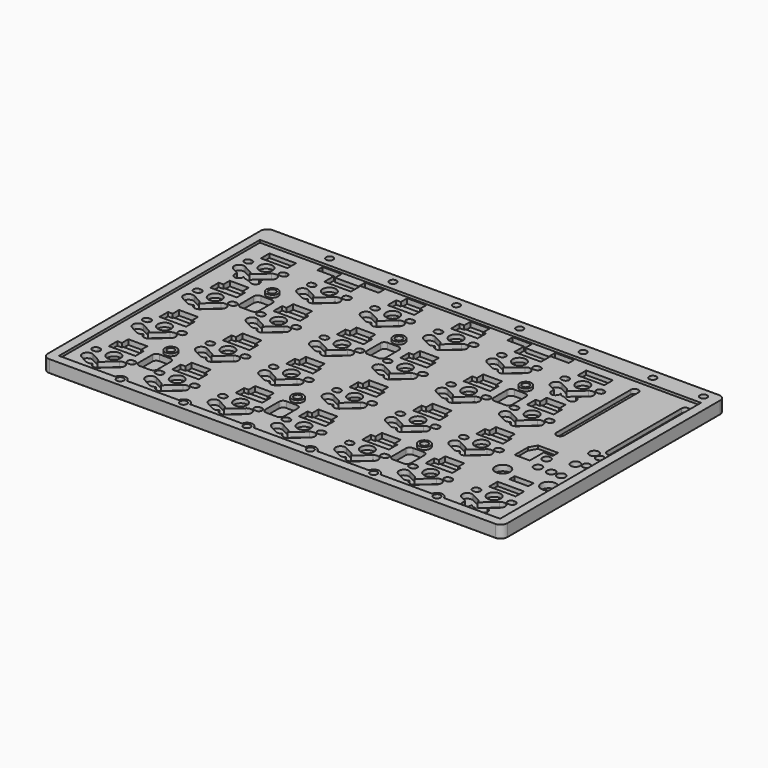
from build123d import *

# Parameters (mm, degrees)
PAD010_DEPTH    = 3
FILLET004_R     = 0.1
SKETCH018_R     = 2
POCKET004_DEPTH = 1.2
POCKET007_DEPTH = 1.5
POCKET016_DEPTH = 1.5
SKETCH022_W     = 8
SKETCH022_H     = 3.2
POCKET010_DEPTH = 1.2
POCKET011_DEPTH = 1.8
SKETCH029_W     = 5.7
SKETCH029_H     = 2
POCKET014_DEPTH = 1.5
SKETCH101_W     = 5.7
SKETCH101_H     = 0.4
SKETCH101_W_2   = 0.225
SKETCH101_W_3   = 0.725
POCKET067_DEPTH = 1.2
POCKET022_DEPTH = 0.9
POCKET020_DEPTH = 1.3
SKETCH033_R     = 2.25
SKETCH033_R_2   = 1.15
SKETCH033_R_3   = 1.4
SKETCH033_R_4   = 1.25
POCKET018_DEPTH = 1.7
PAD026_DEPTH    = 0.75
SKETCH070_W     = 132.6
SKETCH070_H     = 75.5
POCKET051_DEPTH = 0.75
SKETCH072_R     = 1.75
PAD024_DEPTH    = 0.75
SKETCH043_R     = 1.075
POCKET024_DEPTH = 4.501


with BuildPart() as part:
    # Sketch017 → Pad010 (new body)
    with BuildSketch(Plane.XY):
        with BuildLine():
            Line((-145.25, 89.1), (-145.25, 9.15))
            ThreePointArc((-145.25, 9.15), (-144.664214, 7.735786), (-143.25, 7.15))
            Line((-9.15, 7.15), (-143.25, 7.15))
            ThreePointArc((-9.15, 7.15), (-7.735786, 7.735786), (-7.15, 9.15))
            Line((-7.15, 89.1), (-7.15, 9.15))
            ThreePointArc((-7.15, 89.1), (-7.735786, 90.514214), (-9.15, 91.1))
            Line((-143.25, 91.1), (-9.15, 91.1))
            ThreePointArc((-143.25, 91.1), (-144.664214, 90.514214), (-145.25, 89.1))
        make_face()
    extrude(amount=-PAD010_DEPTH)

    # Fillet004
    fillet004_edges = [part.edges().sort_by_distance(p)[0] for p in [
        (-76.2, 7.15, -3),
        (-7.735786, 7.735786, -3),
        (-7.15, 49.125, -3),
        (-7.735786, 90.514214, -3),
        (-76.2, 91.1, -3),
        (-144.664214, 90.514214, -3),
        (-145.25, 49.125, -3),
    ]]
    fillet(fillet004_edges, radius=FILLET004_R)

    # Sketch018 → Pocket004 (cut)
    with BuildSketch(Plane.XY):
        with Locations((-133.35, 76.2)):
            Circle(SKETCH018_R)
        with Locations((-114.3, 76.2)):
            Circle(SKETCH018_R)
        with Locations((-95.25, 76.2)):
            Circle(SKETCH018_R)
        with Locations((-76.2, 76.2)):
            Circle(SKETCH018_R)
        with Locations((-57.15, 76.2)):
            Circle(SKETCH018_R)
        with Locations((-38.1, 76.2)):
            Circle(SKETCH018_R)
        with Locations((-133.35, 57.15)):
            Circle(SKETCH018_R)
        with Locations((-114.3, 57.15)):
            Circle(SKETCH018_R)
        with Locations((-95.25, 57.15)):
            Circle(SKETCH018_R)
        with Locations((-76.2, 57.15)):
            Circle(SKETCH018_R)
        with Locations((-57.15, 57.15)):
            Circle(SKETCH018_R)
        with Locations((-38.1, 57.15)):
            Circle(SKETCH018_R)
        with Locations((-133.35, 38.1)):
            Circle(SKETCH018_R)
        with Locations((-114.3, 38.1)):
            Circle(SKETCH018_R)
        with Locations((-95.25, 38.1)):
            Circle(SKETCH018_R)
        with Locations((-76.2, 38.1)):
            Circle(SKETCH018_R)
        with Locations((-57.15, 38.1)):
            Circle(SKETCH018_R)
        with Locations((-38.1, 38.1)):
            Circle(SKETCH018_R)
        with Locations((-133.35, 19.05)):
            Circle(SKETCH018_R)
        with Locations((-114.3, 19.05)):
            Circle(SKETCH018_R)
        with Locations((-95.25, 19.05)):
            Circle(SKETCH018_R)
        with Locations((-76.2, 19.05)):
            Circle(SKETCH018_R)
        with Locations((-57.15, 19.05)):
            Circle(SKETCH018_R)
        with Locations((-38.1, 19.05)):
            Circle(SKETCH018_R)
        with Locations((-19.05, 19.05)):
            Circle(SKETCH018_R)
        with BuildLine():
            ThreePointArc((-138.85, 77.2), (-139.85, 76.2), (-138.85, 75.2))
            Line((-138.85, 75.2), (-138.43, 75.2))
            ThreePointArc((-138.43, 75.2), (-137.43, 76.2), (-138.43, 77.2))
            Line((-138.85, 77.2), (-138.43, 77.2))
        make_face()
        with BuildLine():
            ThreePointArc((-128.27, 77.2), (-129.27, 76.2), (-128.27, 75.2))
            Line((-128.27, 75.2), (-127.85, 75.2))
            ThreePointArc((-127.85, 75.2), (-126.85, 76.2), (-127.85, 77.2))
            Line((-128.27, 77.2), (-127.85, 77.2))
        make_face()
        with BuildLine():
            ThreePointArc((-119.8, 77.2), (-120.8, 76.2), (-119.8, 75.2))
            Line((-119.8, 75.2), (-119.38, 75.2))
            ThreePointArc((-119.38, 75.2), (-118.38, 76.2), (-119.38, 77.2))
            Line((-119.8, 77.2), (-119.38, 77.2))
        make_face()
        with BuildLine():
            ThreePointArc((-109.22, 77.2), (-110.22, 76.2), (-109.22, 75.2))
            Line((-109.22, 75.2), (-108.8, 75.2))
            ThreePointArc((-108.8, 75.2), (-107.8, 76.2), (-108.8, 77.2))
            Line((-109.22, 77.2), (-108.8, 77.2))
        make_face()
        with BuildLine():
            ThreePointArc((-100.75, 77.2), (-101.75, 76.2), (-100.75, 75.2))
            Line((-100.75, 75.2), (-100.33, 75.2))
            ThreePointArc((-100.33, 75.2), (-99.33, 76.2), (-100.33, 77.2))
            Line((-100.75, 77.2), (-100.33, 77.2))
        make_face()
        with BuildLine():
            ThreePointArc((-90.17, 77.2), (-91.17, 76.2), (-90.17, 75.2))
            Line((-90.17, 75.2), (-89.75, 75.2))
            ThreePointArc((-89.75, 75.2), (-88.75, 76.2), (-89.75, 77.2))
            Line((-90.17, 77.2), (-89.75, 77.2))
        make_face()
        with BuildLine():
            ThreePointArc((-81.7, 77.2), (-82.7, 76.2), (-81.7, 75.2))
            Line((-81.7, 75.2), (-81.28, 75.2))
            ThreePointArc((-81.28, 75.2), (-80.28, 76.2), (-81.28, 77.2))
            Line((-81.7, 77.2), (-81.28, 77.2))
        make_face()
        with BuildLine():
            ThreePointArc((-71.12, 77.2), (-72.12, 76.2), (-71.12, 75.2))
            Line((-71.12, 75.2), (-70.7, 75.2))
            ThreePointArc((-70.7, 75.2), (-69.7, 76.2), (-70.7, 77.2))
            Line((-71.12, 77.2), (-70.7, 77.2))
        make_face()
        with BuildLine():
            ThreePointArc((-62.65, 77.2), (-63.65, 76.2), (-62.65, 75.2))
            Line((-62.65, 75.2), (-62.23, 75.2))
            ThreePointArc((-62.23, 75.2), (-61.23, 76.2), (-62.23, 77.2))
            Line((-62.65, 77.2), (-62.23, 77.2))
        make_face()
        with BuildLine():
            ThreePointArc((-52.07, 77.2), (-53.07, 76.2), (-52.07, 75.2))
            Line((-52.07, 75.2), (-51.65, 75.2))
            ThreePointArc((-51.65, 75.2), (-50.65, 76.2), (-51.65, 77.2))
            Line((-52.07, 77.2), (-51.65, 77.2))
        make_face()
        with BuildLine():
            ThreePointArc((-43.6, 77.2), (-44.6, 76.2), (-43.6, 75.2))
            Line((-43.6, 75.2), (-43.18, 75.2))
            ThreePointArc((-43.18, 75.2), (-42.18, 76.2), (-43.18, 77.2))
            Line((-43.6, 77.2), (-43.18, 77.2))
        make_face()
        with BuildLine():
            ThreePointArc((-33.02, 77.2), (-34.02, 76.2), (-33.02, 75.2))
            Line((-33.02, 75.2), (-32.6, 75.2))
            ThreePointArc((-32.6, 75.2), (-31.6, 76.2), (-32.6, 77.2))
            Line((-33.02, 77.2), (-32.6, 77.2))
        make_face()
        with BuildLine():
            ThreePointArc((-138.85, 58.15), (-139.85, 57.15), (-138.85, 56.15))
            Line((-138.85, 56.15), (-138.43, 56.15))
            ThreePointArc((-138.43, 56.15), (-137.43, 57.15), (-138.43, 58.15))
            Line((-138.85, 58.15), (-138.43, 58.15))
        make_face()
        with BuildLine():
            ThreePointArc((-128.27, 58.15), (-129.27, 57.15), (-128.27, 56.15))
            Line((-128.27, 56.15), (-127.85, 56.15))
            ThreePointArc((-127.85, 56.15), (-126.85, 57.15), (-127.85, 58.15))
            Line((-128.27, 58.15), (-127.85, 58.15))
        make_face()
        with BuildLine():
            ThreePointArc((-119.8, 58.15), (-120.8, 57.15), (-119.8, 56.15))
            Line((-119.8, 56.15), (-119.38, 56.15))
            ThreePointArc((-119.38, 56.15), (-118.38, 57.15), (-119.38, 58.15))
            Line((-119.8, 58.15), (-119.38, 58.15))
        make_face()
        with BuildLine():
            ThreePointArc((-109.22, 58.15), (-110.22, 57.15), (-109.22, 56.15))
            Line((-109.22, 56.15), (-108.8, 56.15))
            ThreePointArc((-108.8, 56.15), (-107.8, 57.15), (-108.8, 58.15))
            Line((-109.22, 58.15), (-108.8, 58.15))
        make_face()
        with BuildLine():
            ThreePointArc((-100.75, 58.15), (-101.75, 57.15), (-100.75, 56.15))
            Line((-100.75, 56.15), (-100.33, 56.15))
            ThreePointArc((-100.33, 56.15), (-99.33, 57.15), (-100.33, 58.15))
            Line((-100.75, 58.15), (-100.33, 58.15))
        make_face()
        with BuildLine():
            ThreePointArc((-90.17, 58.15), (-91.17, 57.15), (-90.17, 56.15))
            Line((-90.17, 56.15), (-89.75, 56.15))
            ThreePointArc((-89.75, 56.15), (-88.75, 57.15), (-89.75, 58.15))
            Line((-90.17, 58.15), (-89.75, 58.15))
        make_face()
        with BuildLine():
            ThreePointArc((-81.7, 58.15), (-82.7, 57.15), (-81.7, 56.15))
            Line((-81.7, 56.15), (-81.28, 56.15))
            ThreePointArc((-81.28, 56.15), (-80.28, 57.15), (-81.28, 58.15))
            Line((-81.7, 58.15), (-81.28, 58.15))
        make_face()
        with BuildLine():
            ThreePointArc((-71.12, 58.15), (-72.12, 57.15), (-71.12, 56.15))
            Line((-71.12, 56.15), (-70.7, 56.15))
            ThreePointArc((-70.7, 56.15), (-69.7, 57.15), (-70.7, 58.15))
            Line((-71.12, 58.15), (-70.7, 58.15))
        make_face()
        with BuildLine():
            ThreePointArc((-62.65, 58.15), (-63.65, 57.15), (-62.65, 56.15))
            Line((-62.65, 56.15), (-62.23, 56.15))
            ThreePointArc((-62.23, 56.15), (-61.23, 57.15), (-62.23, 58.15))
            Line((-62.65, 58.15), (-62.23, 58.15))
        make_face()
        with BuildLine():
            ThreePointArc((-52.07, 58.15), (-53.07, 57.15), (-52.07, 56.15))
            Line((-52.07, 56.15), (-51.65, 56.15))
            ThreePointArc((-51.65, 56.15), (-50.65, 57.15), (-51.65, 58.15))
            Line((-52.07, 58.15), (-51.65, 58.15))
        make_face()
        with BuildLine():
            ThreePointArc((-43.6, 58.15), (-44.6, 57.15), (-43.6, 56.15))
            Line((-43.6, 56.15), (-43.18, 56.15))
            ThreePointArc((-43.18, 56.15), (-42.18, 57.15), (-43.18, 58.15))
            Line((-43.6, 58.15), (-43.18, 58.15))
        make_face()
        with BuildLine():
            ThreePointArc((-33.02, 58.15), (-34.02, 57.15), (-33.02, 56.15))
            Line((-33.02, 56.15), (-32.6, 56.15))
            ThreePointArc((-32.6, 56.15), (-31.6, 57.15), (-32.6, 58.15))
            Line((-33.02, 58.15), (-32.6, 58.15))
        make_face()
        with BuildLine():
            ThreePointArc((-138.85, 39.1), (-139.85, 38.1), (-138.85, 37.1))
            Line((-138.85, 37.1), (-138.43, 37.1))
            ThreePointArc((-138.43, 37.1), (-137.43, 38.1), (-138.43, 39.1))
            Line((-138.85, 39.1), (-138.43, 39.1))
        make_face()
        with BuildLine():
            ThreePointArc((-128.27, 39.1), (-129.27, 38.1), (-128.27, 37.1))
            Line((-128.27, 37.1), (-127.85, 37.1))
            ThreePointArc((-127.85, 37.1), (-126.85, 38.1), (-127.85, 39.1))
            Line((-128.27, 39.1), (-127.85, 39.1))
        make_face()
        with BuildLine():
            ThreePointArc((-119.8, 39.1), (-120.8, 38.1), (-119.8, 37.1))
            Line((-119.8, 37.1), (-119.38, 37.1))
            ThreePointArc((-119.38, 37.1), (-118.38, 38.1), (-119.38, 39.1))
            Line((-119.8, 39.1), (-119.38, 39.1))
        make_face()
        with BuildLine():
            ThreePointArc((-109.22, 39.1), (-110.22, 38.1), (-109.22, 37.1))
            Line((-109.22, 37.1), (-108.8, 37.1))
            ThreePointArc((-108.8, 37.1), (-107.8, 38.1), (-108.8, 39.1))
            Line((-109.22, 39.1), (-108.8, 39.1))
        make_face()
        with BuildLine():
            ThreePointArc((-100.75, 39.1), (-101.75, 38.1), (-100.75, 37.1))
            Line((-100.75, 37.1), (-100.33, 37.1))
            ThreePointArc((-100.33, 37.1), (-99.33, 38.1), (-100.33, 39.1))
            Line((-100.75, 39.1), (-100.33, 39.1))
        make_face()
        with BuildLine():
            ThreePointArc((-90.17, 39.1), (-91.17, 38.1), (-90.17, 37.1))
            Line((-90.17, 37.1), (-89.75, 37.1))
            ThreePointArc((-89.75, 37.1), (-88.75, 38.1), (-89.75, 39.1))
            Line((-90.17, 39.1), (-89.75, 39.1))
        make_face()
        with BuildLine():
            ThreePointArc((-81.7, 39.1), (-82.7, 38.1), (-81.7, 37.1))
            Line((-81.7, 37.1), (-81.28, 37.1))
            ThreePointArc((-81.28, 37.1), (-80.28, 38.1), (-81.28, 39.1))
            Line((-81.7, 39.1), (-81.28, 39.1))
        make_face()
        with BuildLine():
            ThreePointArc((-71.12, 39.1), (-72.12, 38.1), (-71.12, 37.1))
            Line((-71.12, 37.1), (-70.7, 37.1))
            ThreePointArc((-70.7, 37.1), (-69.7, 38.1), (-70.7, 39.1))
            Line((-71.12, 39.1), (-70.7, 39.1))
        make_face()
        with BuildLine():
            ThreePointArc((-62.65, 39.1), (-63.65, 38.1), (-62.65, 37.1))
            Line((-62.65, 37.1), (-62.23, 37.1))
            ThreePointArc((-62.23, 37.1), (-61.23, 38.1), (-62.23, 39.1))
            Line((-62.65, 39.1), (-62.23, 39.1))
        make_face()
        with BuildLine():
            ThreePointArc((-52.07, 39.1), (-53.07, 38.1), (-52.07, 37.1))
            Line((-52.07, 37.1), (-51.65, 37.1))
            ThreePointArc((-51.65, 37.1), (-50.65, 38.1), (-51.65, 39.1))
            Line((-52.07, 39.1), (-51.65, 39.1))
        make_face()
        with BuildLine():
            ThreePointArc((-43.6, 39.1), (-44.6, 38.1), (-43.6, 37.1))
            Line((-43.6, 37.1), (-43.18, 37.1))
            ThreePointArc((-43.18, 37.1), (-42.18, 38.1), (-43.18, 39.1))
            Line((-43.6, 39.1), (-43.18, 39.1))
        make_face()
        with BuildLine():
            ThreePointArc((-33.02, 39.1), (-34.02, 38.1), (-33.02, 37.1))
            Line((-33.02, 37.1), (-32.6, 37.1))
            ThreePointArc((-32.6, 37.1), (-31.6, 38.1), (-32.6, 39.1))
            Line((-33.02, 39.1), (-32.6, 39.1))
        make_face()
        with BuildLine():
            ThreePointArc((-138.85, 20.05), (-139.85, 19.05), (-138.85, 18.05))
            Line((-138.85, 18.05), (-138.43, 18.05))
            ThreePointArc((-138.43, 18.05), (-137.43, 19.05), (-138.43, 20.05))
            Line((-138.85, 20.05), (-138.43, 20.05))
        make_face()
        with BuildLine():
            ThreePointArc((-128.27, 20.05), (-129.27, 19.05), (-128.27, 18.05))
            Line((-128.27, 18.05), (-127.85, 18.05))
            ThreePointArc((-127.85, 18.05), (-126.85, 19.05), (-127.85, 20.05))
            Line((-128.27, 20.05), (-127.85, 20.05))
        make_face()
        with BuildLine():
            ThreePointArc((-119.8, 20.05), (-120.8, 19.05), (-119.8, 18.05))
            Line((-119.8, 18.05), (-119.38, 18.05))
            ThreePointArc((-119.38, 18.05), (-118.38, 19.05), (-119.38, 20.05))
            Line((-119.8, 20.05), (-119.38, 20.05))
        make_face()
        with BuildLine():
            ThreePointArc((-109.22, 20.05), (-110.22, 19.05), (-109.22, 18.05))
            Line((-109.22, 18.05), (-108.8, 18.05))
            ThreePointArc((-108.8, 18.05), (-107.8, 19.05), (-108.8, 20.05))
            Line((-109.22, 20.05), (-108.8, 20.05))
        make_face()
        with BuildLine():
            ThreePointArc((-100.75, 20.05), (-101.75, 19.05), (-100.75, 18.05))
            Line((-100.75, 18.05), (-100.33, 18.05))
            ThreePointArc((-100.33, 18.05), (-99.33, 19.05), (-100.33, 20.05))
            Line((-100.75, 20.05), (-100.33, 20.05))
        make_face()
        with BuildLine():
            ThreePointArc((-90.17, 20.05), (-91.17, 19.05), (-90.17, 18.05))
            Line((-90.17, 18.05), (-89.75, 18.05))
            ThreePointArc((-89.75, 18.05), (-88.75, 19.05), (-89.75, 20.05))
            Line((-90.17, 20.05), (-89.75, 20.05))
        make_face()
        with BuildLine():
            ThreePointArc((-81.7, 20.05), (-82.7, 19.05), (-81.7, 18.05))
            Line((-81.7, 18.05), (-81.28, 18.05))
            ThreePointArc((-81.28, 18.05), (-80.28, 19.05), (-81.28, 20.05))
            Line((-81.7, 20.05), (-81.28, 20.05))
        make_face()
        with BuildLine():
            ThreePointArc((-71.12, 20.05), (-72.12, 19.05), (-71.12, 18.05))
            Line((-71.12, 18.05), (-70.7, 18.05))
            ThreePointArc((-70.7, 18.05), (-69.7, 19.05), (-70.7, 20.05))
            Line((-71.12, 20.05), (-70.7, 20.05))
        make_face()
        with BuildLine():
            ThreePointArc((-62.65, 20.05), (-63.65, 19.05), (-62.65, 18.05))
            Line((-62.65, 18.05), (-62.23, 18.05))
            ThreePointArc((-62.23, 18.05), (-61.23, 19.05), (-62.23, 20.05))
            Line((-62.65, 20.05), (-62.23, 20.05))
        make_face()
        with BuildLine():
            ThreePointArc((-52.07, 20.05), (-53.07, 19.05), (-52.07, 18.05))
            Line((-52.07, 18.05), (-51.65, 18.05))
            ThreePointArc((-51.65, 18.05), (-50.65, 19.05), (-51.65, 20.05))
            Line((-52.07, 20.05), (-51.65, 20.05))
        make_face()
        with BuildLine():
            ThreePointArc((-43.6, 20.05), (-44.6, 19.05), (-43.6, 18.05))
            Line((-43.6, 18.05), (-43.18, 18.05))
            ThreePointArc((-43.18, 18.05), (-42.18, 19.05), (-43.18, 20.05))
            Line((-43.6, 20.05), (-43.18, 20.05))
        make_face()
        with BuildLine():
            ThreePointArc((-33.02, 20.05), (-34.02, 19.05), (-33.02, 18.05))
            Line((-33.02, 18.05), (-32.6, 18.05))
            ThreePointArc((-32.6, 18.05), (-31.6, 19.05), (-32.6, 20.05))
            Line((-33.02, 20.05), (-32.6, 20.05))
        make_face()
        with BuildLine():
            ThreePointArc((-24.55, 20.05), (-25.55, 19.05), (-24.55, 18.05))
            Line((-24.55, 18.05), (-24.13, 18.05))
            ThreePointArc((-24.13, 18.05), (-23.13, 19.05), (-24.13, 20.05))
            Line((-24.55, 20.05), (-24.13, 20.05))
        make_face()
        with BuildLine():
            ThreePointArc((-13.97, 20.05), (-14.97, 19.05), (-13.97, 18.05))
            Line((-13.97, 18.05), (-13.55, 18.05))
            ThreePointArc((-13.55, 18.05), (-12.55, 19.05), (-13.55, 20.05))
            Line((-13.97, 20.05), (-13.55, 20.05))
        make_face()
    extrude(amount=-POCKET004_DEPTH, mode=Mode.SUBTRACT)

    # Sketch021 → Pocket007 (cut)
    with BuildSketch(Plane.XY):
        with BuildLine():
            ThreePointArc((-128.547861, 72.534985), (-128.414985, 74.652139), (-130.532139, 74.785015))
            Line((-130.532139, 74.785015), (-134.342139, 71.425015))
            ThreePointArc((-134.342139, 71.425015), (-134.475015, 69.307861), (-132.357861, 69.174985))
            Line((-128.547861, 72.534985), (-132.357861, 69.174985))
        make_face()
        with BuildLine():
            ThreePointArc((-137.65763, 73.730648), (-139.680648, 73.09237), (-139.04237, 71.069352))
            Line((-139.04237, 71.069352), (-136.58237, 69.789352))
            ThreePointArc((-136.58237, 69.789352), (-134.559352, 70.42763), (-135.19763, 72.450648))
            Line((-137.65763, 73.730648), (-135.19763, 72.450648))
        make_face()
        with BuildLine():
            ThreePointArc((-109.497861, 72.534985), (-109.364985, 74.652139), (-111.482139, 74.785015))
            Line((-111.482139, 74.785015), (-115.292139, 71.425015))
            ThreePointArc((-115.292139, 71.425015), (-115.425015, 69.307861), (-113.307861, 69.174985))
            Line((-109.497861, 72.534985), (-113.307861, 69.174985))
        make_face()
        with BuildLine():
            ThreePointArc((-118.60763, 73.730648), (-120.630648, 73.09237), (-119.99237, 71.069352))
            Line((-119.99237, 71.069352), (-117.53237, 69.789352))
            ThreePointArc((-117.53237, 69.789352), (-115.509352, 70.42763), (-116.14763, 72.450648))
            Line((-118.60763, 73.730648), (-116.14763, 72.450648))
        make_face()
        with BuildLine():
            ThreePointArc((-90.447861, 72.534985), (-90.314985, 74.652139), (-92.432139, 74.785015))
            Line((-92.432139, 74.785015), (-96.242139, 71.425015))
            ThreePointArc((-96.242139, 71.425015), (-96.375015, 69.307861), (-94.257861, 69.174985))
            Line((-90.447861, 72.534985), (-94.257861, 69.174985))
        make_face()
        with BuildLine():
            ThreePointArc((-99.55763, 73.730648), (-101.580648, 73.09237), (-100.94237, 71.069352))
            Line((-100.94237, 71.069352), (-98.48237, 69.789352))
            ThreePointArc((-98.48237, 69.789352), (-96.459352, 70.42763), (-97.09763, 72.450648))
            Line((-99.55763, 73.730648), (-97.09763, 72.450648))
        make_face()
        with BuildLine():
            ThreePointArc((-71.397861, 72.534985), (-71.264985, 74.652139), (-73.382139, 74.785015))
            Line((-73.382139, 74.785015), (-77.192139, 71.425015))
            ThreePointArc((-77.192139, 71.425015), (-77.325015, 69.307861), (-75.207861, 69.174985))
            Line((-71.397861, 72.534985), (-75.207861, 69.174985))
        make_face()
        with BuildLine():
            ThreePointArc((-80.50763, 73.730648), (-82.530648, 73.09237), (-81.89237, 71.069352))
            Line((-81.89237, 71.069352), (-79.43237, 69.789352))
            ThreePointArc((-79.43237, 69.789352), (-77.409352, 70.42763), (-78.04763, 72.450648))
            Line((-80.50763, 73.730648), (-78.04763, 72.450648))
        make_face()
        with BuildLine():
            ThreePointArc((-52.347861, 72.534985), (-52.214985, 74.652139), (-54.332139, 74.785015))
            Line((-54.332139, 74.785015), (-58.142139, 71.425015))
            ThreePointArc((-58.142139, 71.425015), (-58.275015, 69.307861), (-56.157861, 69.174985))
            Line((-52.347861, 72.534985), (-56.157861, 69.174985))
        make_face()
        with BuildLine():
            ThreePointArc((-61.45763, 73.730648), (-63.480648, 73.09237), (-62.84237, 71.069352))
            Line((-62.84237, 71.069352), (-60.38237, 69.789352))
            ThreePointArc((-60.38237, 69.789352), (-58.359352, 70.42763), (-58.99763, 72.450648))
            Line((-61.45763, 73.730648), (-58.99763, 72.450648))
        make_face()
        with BuildLine():
            ThreePointArc((-33.297861, 72.534985), (-33.164985, 74.652139), (-35.282139, 74.785015))
            Line((-35.282139, 74.785015), (-39.092139, 71.425015))
            ThreePointArc((-39.092139, 71.425015), (-39.225015, 69.307861), (-37.107861, 69.174985))
            Line((-33.297861, 72.534985), (-37.107861, 69.174985))
        make_face()
        with BuildLine():
            ThreePointArc((-42.40763, 73.730648), (-44.430648, 73.09237), (-43.79237, 71.069352))
            Line((-43.79237, 71.069352), (-41.33237, 69.789352))
            ThreePointArc((-41.33237, 69.789352), (-39.309352, 70.42763), (-39.94763, 72.450648))
            Line((-42.40763, 73.730648), (-39.94763, 72.450648))
        make_face()
        with BuildLine():
            ThreePointArc((-128.547861, 53.484985), (-128.414985, 55.602139), (-130.532139, 55.735015))
            Line((-130.532139, 55.735015), (-134.342139, 52.375015))
            ThreePointArc((-134.342139, 52.375015), (-134.475015, 50.257861), (-132.357861, 50.124985))
            Line((-128.547861, 53.484985), (-132.357861, 50.124985))
        make_face()
        with BuildLine():
            ThreePointArc((-137.65763, 54.680648), (-139.680648, 54.04237), (-139.04237, 52.019352))
            Line((-139.04237, 52.019352), (-136.58237, 50.739352))
            ThreePointArc((-136.58237, 50.739352), (-134.559352, 51.37763), (-135.19763, 53.400648))
            Line((-137.65763, 54.680648), (-135.19763, 53.400648))
        make_face()
        with BuildLine():
            ThreePointArc((-109.497861, 53.484985), (-109.364985, 55.602139), (-111.482139, 55.735015))
            Line((-111.482139, 55.735015), (-115.292139, 52.375015))
            ThreePointArc((-115.292139, 52.375015), (-115.425015, 50.257861), (-113.307861, 50.124985))
            Line((-109.497861, 53.484985), (-113.307861, 50.124985))
        make_face()
        with BuildLine():
            ThreePointArc((-118.60763, 54.680648), (-120.630648, 54.04237), (-119.99237, 52.019352))
            Line((-119.99237, 52.019352), (-117.53237, 50.739352))
            ThreePointArc((-117.53237, 50.739352), (-115.509352, 51.37763), (-116.14763, 53.400648))
            Line((-118.60763, 54.680648), (-116.14763, 53.400648))
        make_face()
        with BuildLine():
            ThreePointArc((-90.447861, 53.484985), (-90.314985, 55.602139), (-92.432139, 55.735015))
            Line((-92.432139, 55.735015), (-96.242139, 52.375015))
            ThreePointArc((-96.242139, 52.375015), (-96.375015, 50.257861), (-94.257861, 50.124985))
            Line((-90.447861, 53.484985), (-94.257861, 50.124985))
        make_face()
        with BuildLine():
            ThreePointArc((-99.55763, 54.680648), (-101.580648, 54.04237), (-100.94237, 52.019352))
            Line((-100.94237, 52.019352), (-98.48237, 50.739352))
            ThreePointArc((-98.48237, 50.739352), (-96.459352, 51.37763), (-97.09763, 53.400648))
            Line((-99.55763, 54.680648), (-97.09763, 53.400648))
        make_face()
        with BuildLine():
            ThreePointArc((-71.397861, 53.484985), (-71.264985, 55.602139), (-73.382139, 55.735015))
            Line((-73.382139, 55.735015), (-77.192139, 52.375015))
            ThreePointArc((-77.192139, 52.375015), (-77.325015, 50.257861), (-75.207861, 50.124985))
            Line((-71.397861, 53.484985), (-75.207861, 50.124985))
        make_face()
        with BuildLine():
            ThreePointArc((-80.50763, 54.680648), (-82.530648, 54.04237), (-81.89237, 52.019352))
            Line((-81.89237, 52.019352), (-79.43237, 50.739352))
            ThreePointArc((-79.43237, 50.739352), (-77.409352, 51.37763), (-78.04763, 53.400648))
            Line((-80.50763, 54.680648), (-78.04763, 53.400648))
        make_face()
        with BuildLine():
            ThreePointArc((-52.347861, 53.484985), (-52.214985, 55.602139), (-54.332139, 55.735015))
            Line((-54.332139, 55.735015), (-58.142139, 52.375015))
            ThreePointArc((-58.142139, 52.375015), (-58.275015, 50.257861), (-56.157861, 50.124985))
            Line((-52.347861, 53.484985), (-56.157861, 50.124985))
        make_face()
        with BuildLine():
            ThreePointArc((-61.45763, 54.680648), (-63.480648, 54.04237), (-62.84237, 52.019352))
            Line((-62.84237, 52.019352), (-60.38237, 50.739352))
            ThreePointArc((-60.38237, 50.739352), (-58.359352, 51.37763), (-58.99763, 53.400648))
            Line((-61.45763, 54.680648), (-58.99763, 53.400648))
        make_face()
        with BuildLine():
            ThreePointArc((-33.297861, 53.484985), (-33.164985, 55.602139), (-35.282139, 55.735015))
            Line((-35.282139, 55.735015), (-39.092139, 52.375015))
            ThreePointArc((-39.092139, 52.375015), (-39.225015, 50.257861), (-37.107861, 50.124985))
            Line((-33.297861, 53.484985), (-37.107861, 50.124985))
        make_face()
        with BuildLine():
            ThreePointArc((-42.40763, 54.680648), (-44.430648, 54.04237), (-43.79237, 52.019352))
            Line((-43.79237, 52.019352), (-41.33237, 50.739352))
            ThreePointArc((-41.33237, 50.739352), (-39.309352, 51.37763), (-39.94763, 53.400648))
            Line((-42.40763, 54.680648), (-39.94763, 53.400648))
        make_face()
        with BuildLine():
            ThreePointArc((-128.547861, 34.434985), (-128.414985, 36.552139), (-130.532139, 36.685015))
            Line((-130.532139, 36.685015), (-134.342139, 33.325015))
            ThreePointArc((-134.342139, 33.325015), (-134.475015, 31.207861), (-132.357861, 31.074985))
            Line((-128.547861, 34.434985), (-132.357861, 31.074985))
        make_face()
        with BuildLine():
            ThreePointArc((-137.65763, 35.630648), (-139.680648, 34.99237), (-139.04237, 32.969352))
            Line((-139.04237, 32.969352), (-136.58237, 31.689352))
            ThreePointArc((-136.58237, 31.689352), (-134.559352, 32.32763), (-135.19763, 34.350648))
            Line((-137.65763, 35.630648), (-135.19763, 34.350648))
        make_face()
        with BuildLine():
            ThreePointArc((-109.497861, 34.434985), (-109.364985, 36.552139), (-111.482139, 36.685015))
            Line((-111.482139, 36.685015), (-115.292139, 33.325015))
            ThreePointArc((-115.292139, 33.325015), (-115.425015, 31.207861), (-113.307861, 31.074985))
            Line((-109.497861, 34.434985), (-113.307861, 31.074985))
        make_face()
        with BuildLine():
            ThreePointArc((-118.60763, 35.630648), (-120.630648, 34.99237), (-119.99237, 32.969352))
            Line((-119.99237, 32.969352), (-117.53237, 31.689352))
            ThreePointArc((-117.53237, 31.689352), (-115.509352, 32.32763), (-116.14763, 34.350648))
            Line((-118.60763, 35.630648), (-116.14763, 34.350648))
        make_face()
        with BuildLine():
            ThreePointArc((-90.447861, 34.434985), (-90.314985, 36.552139), (-92.432139, 36.685015))
            Line((-92.432139, 36.685015), (-96.242139, 33.325015))
            ThreePointArc((-96.242139, 33.325015), (-96.375015, 31.207861), (-94.257861, 31.074985))
            Line((-90.447861, 34.434985), (-94.257861, 31.074985))
        make_face()
        with BuildLine():
            ThreePointArc((-99.55763, 35.630648), (-101.580648, 34.99237), (-100.94237, 32.969352))
            Line((-100.94237, 32.969352), (-98.48237, 31.689352))
            ThreePointArc((-98.48237, 31.689352), (-96.459352, 32.32763), (-97.09763, 34.350648))
            Line((-99.55763, 35.630648), (-97.09763, 34.350648))
        make_face()
        with BuildLine():
            ThreePointArc((-71.397861, 34.434985), (-71.264985, 36.552139), (-73.382139, 36.685015))
            Line((-73.382139, 36.685015), (-77.192139, 33.325015))
            ThreePointArc((-77.192139, 33.325015), (-77.325015, 31.207861), (-75.207861, 31.074985))
            Line((-71.397861, 34.434985), (-75.207861, 31.074985))
        make_face()
        with BuildLine():
            ThreePointArc((-80.50763, 35.630648), (-82.530648, 34.99237), (-81.89237, 32.969352))
            Line((-81.89237, 32.969352), (-79.43237, 31.689352))
            ThreePointArc((-79.43237, 31.689352), (-77.409352, 32.32763), (-78.04763, 34.350648))
            Line((-80.50763, 35.630648), (-78.04763, 34.350648))
        make_face()
        with BuildLine():
            ThreePointArc((-52.347861, 34.434985), (-52.214985, 36.552139), (-54.332139, 36.685015))
            Line((-54.332139, 36.685015), (-58.142139, 33.325015))
            ThreePointArc((-58.142139, 33.325015), (-58.275015, 31.207861), (-56.157861, 31.074985))
            Line((-52.347861, 34.434985), (-56.157861, 31.074985))
        make_face()
        with BuildLine():
            ThreePointArc((-61.45763, 35.630648), (-63.480648, 34.99237), (-62.84237, 32.969352))
            Line((-62.84237, 32.969352), (-60.38237, 31.689352))
            ThreePointArc((-60.38237, 31.689352), (-58.359352, 32.32763), (-58.99763, 34.350648))
            Line((-61.45763, 35.630648), (-58.99763, 34.350648))
        make_face()
        with BuildLine():
            ThreePointArc((-33.297861, 34.434985), (-33.164985, 36.552139), (-35.282139, 36.685015))
            Line((-35.282139, 36.685015), (-39.092139, 33.325015))
            ThreePointArc((-39.092139, 33.325015), (-39.225015, 31.207861), (-37.107861, 31.074985))
            Line((-33.297861, 34.434985), (-37.107861, 31.074985))
        make_face()
        with BuildLine():
            ThreePointArc((-42.40763, 35.630648), (-44.430648, 34.99237), (-43.79237, 32.969352))
            Line((-43.79237, 32.969352), (-41.33237, 31.689352))
            ThreePointArc((-41.33237, 31.689352), (-39.309352, 32.32763), (-39.94763, 34.350648))
            Line((-42.40763, 35.630648), (-39.94763, 34.350648))
        make_face()
        with BuildLine():
            ThreePointArc((-128.547861, 15.384985), (-128.414985, 17.502139), (-130.532139, 17.635015))
            Line((-130.532139, 17.635015), (-134.342139, 14.275015))
            ThreePointArc((-134.342139, 14.275015), (-134.475015, 12.157861), (-132.357861, 12.024985))
            Line((-128.547861, 15.384985), (-132.357861, 12.024985))
        make_face()
        with BuildLine():
            ThreePointArc((-137.65763, 16.580648), (-139.680648, 15.94237), (-139.04237, 13.919352))
            Line((-139.04237, 13.919352), (-136.58237, 12.639352))
            ThreePointArc((-136.58237, 12.639352), (-134.559352, 13.27763), (-135.19763, 15.300648))
            Line((-137.65763, 16.580648), (-135.19763, 15.300648))
        make_face()
        with BuildLine():
            ThreePointArc((-109.497861, 15.384985), (-109.364985, 17.502139), (-111.482139, 17.635015))
            Line((-111.482139, 17.635015), (-115.292139, 14.275015))
            ThreePointArc((-115.292139, 14.275015), (-115.425015, 12.157861), (-113.307861, 12.024985))
            Line((-109.497861, 15.384985), (-113.307861, 12.024985))
        make_face()
        with BuildLine():
            ThreePointArc((-118.60763, 16.580648), (-120.630648, 15.94237), (-119.99237, 13.919352))
            Line((-119.99237, 13.919352), (-117.53237, 12.639352))
            ThreePointArc((-117.53237, 12.639352), (-115.509352, 13.27763), (-116.14763, 15.300648))
            Line((-118.60763, 16.580648), (-116.14763, 15.300648))
        make_face()
        with BuildLine():
            ThreePointArc((-90.447861, 15.384985), (-90.314985, 17.502139), (-92.432139, 17.635015))
            Line((-92.432139, 17.635015), (-96.242139, 14.275015))
            ThreePointArc((-96.242139, 14.275015), (-96.375015, 12.157861), (-94.257861, 12.024985))
            Line((-90.447861, 15.384985), (-94.257861, 12.024985))
        make_face()
        with BuildLine():
            ThreePointArc((-99.55763, 16.580648), (-101.580648, 15.94237), (-100.94237, 13.919352))
            Line((-100.94237, 13.919352), (-98.48237, 12.639352))
            ThreePointArc((-98.48237, 12.639352), (-96.459352, 13.27763), (-97.09763, 15.300648))
            Line((-99.55763, 16.580648), (-97.09763, 15.300648))
        make_face()
        with BuildLine():
            ThreePointArc((-71.397861, 15.384985), (-71.264985, 17.502139), (-73.382139, 17.635015))
            Line((-73.382139, 17.635015), (-77.192139, 14.275015))
            ThreePointArc((-77.192139, 14.275015), (-77.325015, 12.157861), (-75.207861, 12.024985))
            Line((-71.397861, 15.384985), (-75.207861, 12.024985))
        make_face()
        with BuildLine():
            ThreePointArc((-80.50763, 16.580648), (-82.530648, 15.94237), (-81.89237, 13.919352))
            Line((-81.89237, 13.919352), (-79.43237, 12.639352))
            ThreePointArc((-79.43237, 12.639352), (-77.409352, 13.27763), (-78.04763, 15.300648))
            Line((-80.50763, 16.580648), (-78.04763, 15.300648))
        make_face()
        with BuildLine():
            ThreePointArc((-52.347861, 15.384985), (-52.214985, 17.502139), (-54.332139, 17.635015))
            Line((-54.332139, 17.635015), (-58.142139, 14.275015))
            ThreePointArc((-58.142139, 14.275015), (-58.275015, 12.157861), (-56.157861, 12.024985))
            Line((-52.347861, 15.384985), (-56.157861, 12.024985))
        make_face()
        with BuildLine():
            ThreePointArc((-61.45763, 16.580648), (-63.480648, 15.94237), (-62.84237, 13.919352))
            Line((-62.84237, 13.919352), (-60.38237, 12.639352))
            ThreePointArc((-60.38237, 12.639352), (-58.359352, 13.27763), (-58.99763, 15.300648))
            Line((-61.45763, 16.580648), (-58.99763, 15.300648))
        make_face()
        with BuildLine():
            ThreePointArc((-33.297861, 15.384985), (-33.164985, 17.502139), (-35.282139, 17.635015))
            Line((-35.282139, 17.635015), (-39.092139, 14.275015))
            ThreePointArc((-39.092139, 14.275015), (-39.225015, 12.157861), (-37.107861, 12.024985))
            Line((-33.297861, 15.384985), (-37.107861, 12.024985))
        make_face()
        with BuildLine():
            ThreePointArc((-42.40763, 16.580648), (-44.430648, 15.94237), (-43.79237, 13.919352))
            Line((-43.79237, 13.919352), (-41.33237, 12.639352))
            ThreePointArc((-41.33237, 12.639352), (-39.309352, 13.27763), (-39.94763, 15.300648))
            Line((-42.40763, 16.580648), (-39.94763, 15.300648))
        make_face()
        with BuildLine():
            ThreePointArc((-14.247861, 15.384985), (-14.114985, 17.502139), (-16.232139, 17.635015))
            Line((-16.232139, 17.635015), (-20.042139, 14.275015))
            ThreePointArc((-20.042139, 14.275015), (-20.175015, 12.157861), (-18.057861, 12.024985))
            Line((-14.247861, 15.384985), (-18.057861, 12.024985))
        make_face()
        with BuildLine():
            ThreePointArc((-23.35763, 16.580648), (-25.380648, 15.94237), (-24.74237, 13.919352))
            Line((-24.74237, 13.919352), (-22.28237, 12.639352))
            ThreePointArc((-22.28237, 12.639352), (-20.259352, 13.27763), (-20.89763, 15.300648))
            Line((-23.35763, 16.580648), (-20.89763, 15.300648))
        make_face()
    extrude(amount=-POCKET007_DEPTH, mode=Mode.SUBTRACT)

    # Sketch030 → Pocket016 (cut)
    with BuildSketch(Plane.XY):
        with BuildLine():
            ThreePointArc((-18.523349, 14.283639), (-20.183639, 13.676651), (-19.576651, 12.016361))
            Line((-19.576651, 12.016361), (-17.036651, 10.836361))
            ThreePointArc((-17.036651, 10.836361), (-15.376361, 11.443349), (-15.983349, 13.103639))
            Line((-18.523349, 14.283639), (-15.983349, 13.103639))
        make_face()
        with BuildLine():
            ThreePointArc((-20.34, 13.97), (-21.59, 15.22), (-22.84, 13.97))
            Line((-22.84, 13.97), (-22.84, 11.97))
            ThreePointArc((-22.84, 11.97), (-21.59, 10.72), (-20.34, 11.97))
            Line((-20.34, 13.97), (-20.34, 11.97))
        make_face()
        with BuildLine():
            ThreePointArc((-132.823349, 71.433639), (-134.483639, 70.826651), (-133.876651, 69.166361))
            Line((-133.876651, 69.166361), (-131.336651, 67.986361))
            ThreePointArc((-131.336651, 67.986361), (-129.676361, 68.593349), (-130.283349, 70.253639))
            Line((-132.823349, 71.433639), (-130.283349, 70.253639))
        make_face()
        with BuildLine():
            ThreePointArc((-134.64, 71.12), (-135.89, 72.37), (-137.14, 71.12))
            Line((-137.14, 71.12), (-137.14, 69.12))
            ThreePointArc((-137.14, 69.12), (-135.89, 67.87), (-134.64, 69.12))
            Line((-134.64, 71.12), (-134.64, 69.12))
        make_face()
        with BuildLine():
            ThreePointArc((-37.573349, 71.433639), (-39.233639, 70.826651), (-38.626651, 69.166361))
            Line((-38.626651, 69.166361), (-36.086651, 67.986361))
            ThreePointArc((-36.086651, 67.986361), (-34.426361, 68.593349), (-35.033349, 70.253639))
            Line((-37.573349, 71.433639), (-35.033349, 70.253639))
        make_face()
        with BuildLine():
            ThreePointArc((-39.39, 71.12), (-40.64, 72.37), (-41.89, 71.12))
            Line((-41.89, 71.12), (-41.89, 69.12))
            ThreePointArc((-41.89, 69.12), (-40.64, 67.87), (-39.39, 69.12))
            Line((-39.39, 71.12), (-39.39, 69.12))
        make_face()
    extrude(amount=-POCKET016_DEPTH, mode=Mode.SUBTRACT)

    # Sketch022 → Pocket010 (cut)
    with BuildSketch(Plane.XY):
        with Locations((-133.35, 80.9)):
            Rectangle(SKETCH022_W, SKETCH022_H)
        with Locations((-19.05, 23.75)):
            Rectangle(SKETCH022_W, SKETCH022_H)
        with Locations((-114.3, 80.9)):
            Rectangle(SKETCH022_W, SKETCH022_H)
        with Locations((-95.25, 80.9)):
            Rectangle(SKETCH022_W, SKETCH022_H)
        with Locations((-76.2, 80.9)):
            Rectangle(SKETCH022_W, SKETCH022_H)
        with Locations((-57.15, 80.9)):
            Rectangle(SKETCH022_W, SKETCH022_H)
        with Locations((-38.1, 80.9)):
            Rectangle(SKETCH022_W, SKETCH022_H)
        with Locations((-133.35, 61.85)):
            Rectangle(SKETCH022_W, SKETCH022_H)
        with Locations((-114.3, 61.85)):
            Rectangle(SKETCH022_W, SKETCH022_H)
        with Locations((-95.25, 61.85)):
            Rectangle(SKETCH022_W, SKETCH022_H)
        with Locations((-76.2, 61.85)):
            Rectangle(SKETCH022_W, SKETCH022_H)
        with Locations((-57.15, 61.85)):
            Rectangle(SKETCH022_W, SKETCH022_H)
        with Locations((-38.1, 61.85)):
            Rectangle(SKETCH022_W, SKETCH022_H)
        with Locations((-133.35, 42.8)):
            Rectangle(SKETCH022_W, SKETCH022_H)
        with Locations((-114.3, 42.8)):
            Rectangle(SKETCH022_W, SKETCH022_H)
        with Locations((-95.25, 42.8)):
            Rectangle(SKETCH022_W, SKETCH022_H)
        with Locations((-76.2, 42.8)):
            Rectangle(SKETCH022_W, SKETCH022_H)
        with Locations((-57.15, 42.8)):
            Rectangle(SKETCH022_W, SKETCH022_H)
        with Locations((-38.1, 42.8)):
            Rectangle(SKETCH022_W, SKETCH022_H)
        with Locations((-133.35, 23.75)):
            Rectangle(SKETCH022_W, SKETCH022_H)
        with Locations((-114.3, 23.75)):
            Rectangle(SKETCH022_W, SKETCH022_H)
        with Locations((-95.25, 23.75)):
            Rectangle(SKETCH022_W, SKETCH022_H)
        with Locations((-76.2, 23.75)):
            Rectangle(SKETCH022_W, SKETCH022_H)
        with Locations((-57.15, 23.75)):
            Rectangle(SKETCH022_W, SKETCH022_H)
        with Locations((-38.1, 23.75)):
            Rectangle(SKETCH022_W, SKETCH022_H)
    extrude(amount=-POCKET010_DEPTH, mode=Mode.SUBTRACT)

    # Sketch023 → Pocket011 (cut)
    with BuildSketch(Plane.XY):
        with BuildLine():
            Line((-126.625, 63.2), (-126.625, 58.1))
            ThreePointArc((-126.625, 58.1), (-126.273528, 57.251472), (-125.425, 56.9))
            Line((-125.425, 56.9), (-122.225, 56.9))
            ThreePointArc((-122.225, 56.9), (-121.376472, 57.251472), (-121.025, 58.1))
            Line((-121.025, 58.1), (-121.025, 63.2))
            ThreePointArc((-121.025, 63.2), (-121.376472, 64.048528), (-122.225, 64.4))
            Line((-122.225, 64.4), (-125.425, 64.4))
            ThreePointArc((-125.425, 64.4), (-126.273528, 64.048528), (-126.625, 63.2))
        make_face()
        with BuildLine():
            Line((-88.525, 63.2), (-88.525, 58.1))
            ThreePointArc((-88.525, 58.1), (-88.173528, 57.251472), (-87.325, 56.9))
            Line((-87.325, 56.9), (-84.125, 56.9))
            ThreePointArc((-84.125, 56.9), (-83.276472, 57.251472), (-82.925, 58.1))
            Line((-82.925, 58.1), (-82.925, 63.2))
            ThreePointArc((-82.925, 63.2), (-83.276472, 64.048528), (-84.125, 64.4))
            Line((-84.125, 64.4), (-87.325, 64.4))
            ThreePointArc((-87.325, 64.4), (-88.173528, 64.048528), (-88.525, 63.2))
        make_face()
        with BuildLine():
            Line((-50.425, 63.2), (-50.425, 58.1))
            ThreePointArc((-50.425, 58.1), (-50.073528, 57.251472), (-49.225, 56.9))
            Line((-49.225, 56.9), (-46.025, 56.9))
            ThreePointArc((-46.025, 56.9), (-45.176472, 57.251472), (-44.825, 58.1))
            Line((-44.825, 58.1), (-44.825, 63.2))
            ThreePointArc((-44.825, 63.2), (-45.176472, 64.048528), (-46.025, 64.4))
            Line((-46.025, 64.4), (-49.225, 64.4))
            ThreePointArc((-49.225, 64.4), (-50.073528, 64.048528), (-50.425, 63.2))
        make_face()
        with BuildLine():
            Line((-126.625, 25.1), (-126.625, 20))
            ThreePointArc((-126.625, 20), (-126.273528, 19.151472), (-125.425, 18.8))
            Line((-125.425, 18.8), (-122.225, 18.8))
            ThreePointArc((-122.225, 18.8), (-121.376472, 19.151472), (-121.025, 20))
            Line((-121.025, 20), (-121.025, 25.1))
            ThreePointArc((-121.025, 25.1), (-121.376472, 25.948528), (-122.225, 26.3))
            Line((-122.225, 26.3), (-125.425, 26.3))
            ThreePointArc((-125.425, 26.3), (-126.273528, 25.948528), (-126.625, 25.1))
        make_face()
        with BuildLine():
            Line((-88.525, 25.1), (-88.525, 20))
            ThreePointArc((-88.525, 20), (-88.173528, 19.151472), (-87.325, 18.8))
            Line((-87.325, 18.8), (-84.125, 18.8))
            ThreePointArc((-84.125, 18.8), (-83.276472, 19.151472), (-82.925, 20))
            Line((-82.925, 20), (-82.925, 25.1))
            ThreePointArc((-82.925, 25.1), (-83.276472, 25.948528), (-84.125, 26.3))
            Line((-84.125, 26.3), (-87.325, 26.3))
            ThreePointArc((-87.325, 26.3), (-88.173528, 25.948528), (-88.525, 25.1))
        make_face()
        with BuildLine():
            Line((-50.425, 25.1), (-50.425, 20))
            ThreePointArc((-50.425, 20), (-50.073528, 19.151472), (-49.225, 18.8))
            Line((-49.225, 18.8), (-46.025, 18.8))
            ThreePointArc((-46.025, 18.8), (-45.176472, 19.151472), (-44.825, 20))
            Line((-44.825, 20), (-44.825, 25.1))
            ThreePointArc((-44.825, 25.1), (-45.176472, 25.948528), (-46.025, 26.3))
            Line((-46.025, 26.3), (-49.225, 26.3))
            ThreePointArc((-49.225, 26.3), (-50.073528, 25.948528), (-50.425, 25.1))
        make_face()
    extrude(amount=-POCKET011_DEPTH, mode=Mode.SUBTRACT)

    # Sketch029 → Pocket014 (cut)
    with BuildSketch(Plane.XY):
        with Locations((-120.425, 83.9)):
            Rectangle(SKETCH029_W, SKETCH029_H)
        with Locations((-107.675, 83.9)):
            Rectangle(SKETCH029_W, SKETCH029_H)
        with Locations((-95, 83.9)):
            Rectangle(SKETCH029_W, SKETCH029_H)
        with Locations((-75.95, 83.9)):
            Rectangle(SKETCH029_W, SKETCH029_H)
        with Locations((-63.275, 83.9)):
            Rectangle(SKETCH029_W, SKETCH029_H)
        with Locations((-50.525, 83.9)):
            Rectangle(SKETCH029_W, SKETCH029_H)
        with Locations((-133.1, 64.85)):
            Rectangle(SKETCH029_W, SKETCH029_H)
        with Locations((-114.05, 64.85)):
            Rectangle(SKETCH029_W, SKETCH029_H)
        with Locations((-95, 64.85)):
            Rectangle(SKETCH029_W, SKETCH029_H)
        with Locations((-75.95, 64.85)):
            Rectangle(SKETCH029_W, SKETCH029_H)
        with Locations((-56.9, 64.85)):
            Rectangle(SKETCH029_W, SKETCH029_H)
        with Locations((-37.85, 64.85)):
            Rectangle(SKETCH029_W, SKETCH029_H)
        with Locations((-133.1, 45.8)):
            Rectangle(SKETCH029_W, SKETCH029_H)
        with Locations((-114.05, 45.8)):
            Rectangle(SKETCH029_W, SKETCH029_H)
        with Locations((-95, 45.8)):
            Rectangle(SKETCH029_W, SKETCH029_H)
        with Locations((-75.95, 45.8)):
            Rectangle(SKETCH029_W, SKETCH029_H)
        with Locations((-56.9, 45.8)):
            Rectangle(SKETCH029_W, SKETCH029_H)
        with Locations((-37.85, 45.8)):
            Rectangle(SKETCH029_W, SKETCH029_H)
        with Locations((-133.1, 26.75)):
            Rectangle(SKETCH029_W, SKETCH029_H)
        with Locations((-114.05, 26.75)):
            Rectangle(SKETCH029_W, SKETCH029_H)
        with Locations((-95, 26.75)):
            Rectangle(SKETCH029_W, SKETCH029_H)
        with Locations((-75.95, 26.75)):
            Rectangle(SKETCH029_W, SKETCH029_H)
        with Locations((-56.9, 26.75)):
            Rectangle(SKETCH029_W, SKETCH029_H)
        with Locations((-37.85, 26.75)):
            Rectangle(SKETCH029_W, SKETCH029_H)
        with Locations((-18.8, 29.05)):
            Rectangle(SKETCH029_W, SKETCH029_H)
    extrude(amount=-POCKET014_DEPTH, mode=Mode.SUBTRACT)

    # Sketch101 → Pocket067 (cut)
    with BuildSketch(Plane.XY):
        with Locations((-37.85, 25.55)):
            Rectangle(SKETCH101_W, SKETCH101_H)
        with Locations((-56.9, 25.55)):
            Rectangle(SKETCH101_W, SKETCH101_H)
        with Locations((-75.95, 25.55)):
            Rectangle(SKETCH101_W, SKETCH101_H)
        with Locations((-95, 25.55)):
            Rectangle(SKETCH101_W, SKETCH101_H)
        with Locations((-114.05, 25.55)):
            Rectangle(SKETCH101_W, SKETCH101_H)
        with Locations((-133.1, 25.55)):
            Rectangle(SKETCH101_W, SKETCH101_H)
        with Locations((-37.85, 44.6)):
            Rectangle(SKETCH101_W, SKETCH101_H)
        with Locations((-56.9, 44.6)):
            Rectangle(SKETCH101_W, SKETCH101_H)
        with Locations((-75.95, 44.6)):
            Rectangle(SKETCH101_W, SKETCH101_H)
        with Locations((-95, 44.6)):
            Rectangle(SKETCH101_W, SKETCH101_H)
        with Locations((-114.05, 44.6)):
            Rectangle(SKETCH101_W, SKETCH101_H)
        with Locations((-133.1, 44.6)):
            Rectangle(SKETCH101_W, SKETCH101_H)
        with Locations((-37.85, 63.65)):
            Rectangle(SKETCH101_W, SKETCH101_H)
        with Locations((-56.9, 63.65)):
            Rectangle(SKETCH101_W, SKETCH101_H)
        with Locations((-75.95, 63.65)):
            Rectangle(SKETCH101_W, SKETCH101_H)
        with Locations((-95, 63.65)):
            Rectangle(SKETCH101_W, SKETCH101_H)
        with Locations((-114.05, 63.65)):
            Rectangle(SKETCH101_W, SKETCH101_H)
        with Locations((-133.1, 63.65)):
            Rectangle(SKETCH101_W, SKETCH101_H)
        with Locations((-53.2625, 82.7)):
            Rectangle(SKETCH101_W_2, SKETCH101_H)
        with Locations((-60.7875, 82.7)):
            Rectangle(SKETCH101_W_3, SKETCH101_H)
        with Locations((-75.95, 82.7)):
            Rectangle(SKETCH101_W, SKETCH101_H)
        with Locations((-95, 82.7)):
            Rectangle(SKETCH101_W, SKETCH101_H)
        with Locations((-110.4125, 82.7)):
            Rectangle(SKETCH101_W_2, SKETCH101_H)
        with Locations((-117.9375, 82.7)):
            Rectangle(SKETCH101_W_3, SKETCH101_H)
    extrude(amount=-POCKET067_DEPTH, mode=Mode.SUBTRACT)

    # Sketch041 → Pocket022 (cut)
    with BuildSketch(Plane.XY):
        Polygon((-23.85, 43.675), (-23.85, 38.475), (-28.39, 38.475), (-28.39, 43.475), (-27.1, 45.675), (-21.1, 45.675), (-21.1, 43.675), align=None)
    extrude(amount=-POCKET022_DEPTH, mode=Mode.SUBTRACT)

    # Sketch035 → Pocket020 (cut)
    with BuildSketch(Plane.XY):
        with BuildLine():
            ThreePointArc((-25.52, 81.365), (-26.67, 82.515), (-27.82, 81.365))
            Line((-27.82, 81.365), (-27.82, 53.425))
            ThreePointArc((-27.82, 53.425), (-26.67, 52.275), (-25.52, 53.425))
            Line((-25.52, 81.365), (-25.52, 53.425))
        make_face()
        with BuildLine():
            ThreePointArc((-10.28, 81.365), (-11.43, 82.515), (-12.58, 81.365))
            Line((-12.58, 81.365), (-12.58, 53.425))
            ThreePointArc((-12.58, 53.425), (-11.43, 52.275), (-10.28, 53.425))
            Line((-10.28, 81.365), (-10.28, 53.425))
        make_face()
    extrude(amount=-POCKET020_DEPTH, mode=Mode.SUBTRACT)

    # Sketch033 → Pocket018 (cut)
    with BuildSketch(Plane.XY):
        with Locations((-26.05, 31.05)):
            Circle(SKETCH033_R)
        with Locations((-12.25, 31.05)):
            Circle(SKETCH033_R)
        with Locations((-11.8, 49.725)):
            Circle(SKETCH033_R_2)
        with Locations((-11.8, 44.725)):
            Circle(SKETCH033_R_2)
        with Locations((-14.3, 43.725)):
            Circle(SKETCH033_R_3)
        with Locations((-14.3, 50.725)):
            Circle(SKETCH033_R_3)
        with Locations((-13.25, 37.05)):
            Circle(SKETCH033_R_4)
        with Locations((-16.25, 37.05)):
            Circle(SKETCH033_R_4)
        with Locations((-20.25, 37.05)):
            Circle(SKETCH033_R_4)
        with Locations((-21.25, 41.55)):
            Circle(SKETCH033_R_4)
    extrude(amount=-POCKET018_DEPTH, mode=Mode.SUBTRACT)

    # Sketch017 → Pad026 (join)
    with BuildSketch(Plane.XY):
        with BuildLine():
            Line((-145.25, 89.1), (-145.25, 9.15))
            ThreePointArc((-145.25, 9.15), (-144.664214, 7.735786), (-143.25, 7.15))
            Line((-9.15, 7.15), (-143.25, 7.15))
            ThreePointArc((-9.15, 7.15), (-7.735786, 7.735786), (-7.15, 9.15))
            Line((-7.15, 89.1), (-7.15, 9.15))
            ThreePointArc((-7.15, 89.1), (-7.735786, 90.514214), (-9.15, 91.1))
            Line((-143.25, 91.1), (-9.15, 91.1))
            ThreePointArc((-143.25, 91.1), (-144.664214, 90.514214), (-145.25, 89.1))
        make_face()
    extrude(amount=PAD026_DEPTH)

    # Sketch070 → Pocket051 (cut)
    with BuildSketch(Plane.XY):
        with Locations((-76.2, 47.625)):
            Rectangle(SKETCH070_W, SKETCH070_H)
    extrude(amount=POCKET051_DEPTH, mode=Mode.SUBTRACT)

    # Sketch072 → Pad024 (join)
    with BuildSketch(Plane.XY):
        with Locations((-123.825, 28.575)):
            Circle(SKETCH072_R)
        with Locations((-123.825, 66.675)):
            Circle(SKETCH072_R)
        with Locations((-85.725, 66.675)):
            Circle(SKETCH072_R)
        with Locations((-85.725, 28.575)):
            Circle(SKETCH072_R)
        with Locations((-47.625, 28.575)):
            Circle(SKETCH072_R)
        with Locations((-47.625, 66.675)):
            Circle(SKETCH072_R)
        with Locations((-123.825, 9.525)):
            Circle(SKETCH072_R)
        with Locations((-104.775, 9.525)):
            Circle(SKETCH072_R)
        with Locations((-85.725, 9.525)):
            Circle(SKETCH072_R)
        with Locations((-66.675, 9.525)):
            Circle(SKETCH072_R)
        with Locations((-47.625, 9.525)):
            Circle(SKETCH072_R)
        with Locations((-28.575, 9.525)):
            Circle(SKETCH072_R)
        with Locations((-123.825, 88.225)):
            Circle(SKETCH072_R)
        with Locations((-104.775, 88.225)):
            Circle(SKETCH072_R)
        with Locations((-85.725, 88.225)):
            Circle(SKETCH072_R)
        with Locations((-66.675, 88.225)):
            Circle(SKETCH072_R)
        with Locations((-47.625, 88.225)):
            Circle(SKETCH072_R)
        with Locations((-11.43, 88.225)):
            Circle(SKETCH072_R)
        with Locations((-26.67, 88.225)):
            Circle(SKETCH072_R)
    extrude(amount=PAD024_DEPTH)

    # Sketch043 → Pocket024 (cut, through all)
    with BuildSketch(Plane.XY.offset(1.5)):
        with Locations((-123.825, 28.575)):
            Circle(SKETCH043_R)
        with Locations((-123.825, 66.675)):
            Circle(SKETCH043_R)
        with Locations((-85.725, 66.675)):
            Circle(SKETCH043_R)
        with Locations((-85.725, 28.575)):
            Circle(SKETCH043_R)
        with Locations((-47.625, 28.575)):
            Circle(SKETCH043_R)
        with Locations((-47.625, 66.675)):
            Circle(SKETCH043_R)
        with Locations((-123.825, 9.525)):
            Circle(SKETCH043_R)
        with Locations((-104.775, 9.525)):
            Circle(SKETCH043_R)
        with Locations((-85.725, 9.525)):
            Circle(SKETCH043_R)
        with Locations((-66.675, 9.525)):
            Circle(SKETCH043_R)
        with Locations((-47.625, 9.525)):
            Circle(SKETCH043_R)
        with Locations((-28.575, 9.525)):
            Circle(SKETCH043_R)
        with Locations((-123.825, 88.225)):
            Circle(SKETCH043_R)
        with Locations((-104.775, 88.225)):
            Circle(SKETCH043_R)
        with Locations((-85.725, 88.225)):
            Circle(SKETCH043_R)
        with Locations((-66.675, 88.225)):
            Circle(SKETCH043_R)
        with Locations((-47.625, 88.225)):
            Circle(SKETCH043_R)
        with Locations((-11.43, 88.225)):
            Circle(SKETCH043_R)
        with Locations((-26.67, 88.225)):
            Circle(SKETCH043_R)
    extrude(amount=-POCKET024_DEPTH, mode=Mode.SUBTRACT)


solid = part.part
